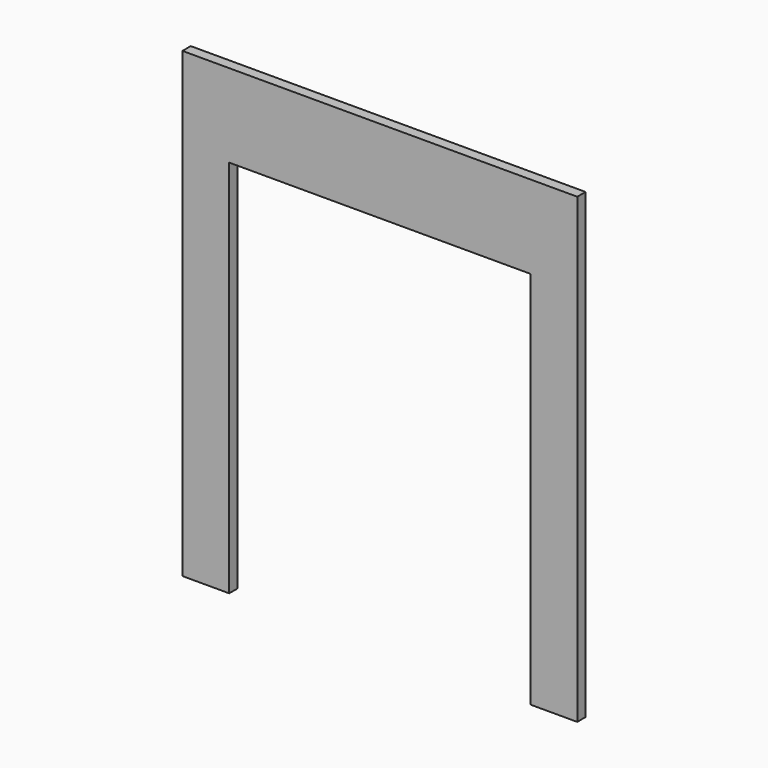
from build123d import *

# Parameters (mm, degrees)
PAD_DEPTH = 20


with BuildPart() as part:
    # Sketch → Pad (new body)
    with BuildSketch(Plane.XZ):
        Polygon((-380, 0), (-290, 0), (-290, 730), (290, 730), (290, 0), (380, 0), (380, 890), (-380, 890), align=None)
    extrude(amount=PAD_DEPTH)


solid = part.part
